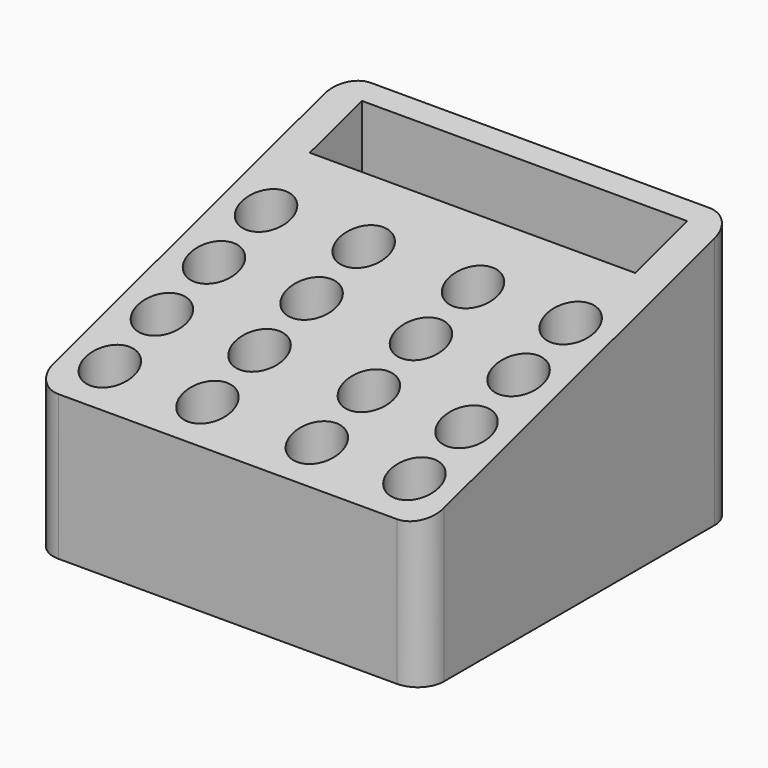
from build123d import *

# Parameters (mm, degrees)
F0_W     = 76.2
F0_H     = 76.2
F1_DEPTH = 50.8
F2_R     = 4.7625
F2_W     = 63.5
F2_H     = 12.7
F3_DEPTH = 44.45
F5_DEPTH = 76.2
F6_R     = 5.08


with BuildPart() as f1:
    # F0 (on Top) → F1 (new body)
    with BuildSketch(Plane.XY):
        with Locations((-4.885403, 0.97207)):
            Rectangle(F0_W, F0_H)
    extrude(amount=F1_DEPTH)

    # F2 (on face) → F3 (cut)
    with BuildSketch(Plane.XY.offset(50.8)):
        with Locations((-34.603403, 9.35407)):
            Circle(F2_R)
        with Locations((-15.553403, 9.35407)):
            Circle(F2_R)
        with Locations((-34.603403, -3.34593)):
            Circle(F2_R)
        with Locations((-34.603403, -16.04593)):
            Circle(F2_R)
        with Locations((-34.603403, -28.74593)):
            Circle(F2_R)
        with Locations((-15.553403, -3.34593)):
            Circle(F2_R)
        with Locations((-15.553403, -16.04593)):
            Circle(F2_R)
        with Locations((-15.553403, -28.74593)):
            Circle(F2_R)
        with Locations((5.782597, 9.35407)):
            Circle(F2_R)
        with Locations((5.782597, -3.34593)):
            Circle(F2_R)
        with Locations((5.782597, -16.04593)):
            Circle(F2_R)
        with Locations((5.782597, -28.74593)):
            Circle(F2_R)
        with Locations((24.832597, 9.35407)):
            Circle(F2_R)
        with Locations((24.832597, -3.34593)):
            Circle(F2_R)
        with Locations((24.832597, -16.04593)):
            Circle(F2_R)
        with Locations((24.832597, -28.74593)):
            Circle(F2_R)
        with Locations((-4.885403, 28.906011)):
            Rectangle(F2_W, F2_H)
    extrude(amount=-F3_DEPTH, mode=Mode.SUBTRACT)

    # F4 (on face) → F5 (cut)
    with BuildSketch(Plane(origin=(-42.985403, 0, 0), x_dir=(0, -1, 0), z_dir=(-1, 0, 0))):
        Polygon((37.12793, 50.8), (-39.07207, 50.8), (37.12793, 28.298467), align=None)
    extrude(amount=-F5_DEPTH, mode=Mode.SUBTRACT)

    # F6
    f6_edges = [f1.edges().sort_by_distance(p)[0] for p in [
        (33.214597, -37.12793, 14.149234),
        (-42.985403, -37.12793, 14.149234),
        (33.214597, 39.07207, 25.4),
        (-42.985403, 39.07207, 25.4),
    ]]
    fillet(f6_edges, radius=F6_R)


solid = f1.part
